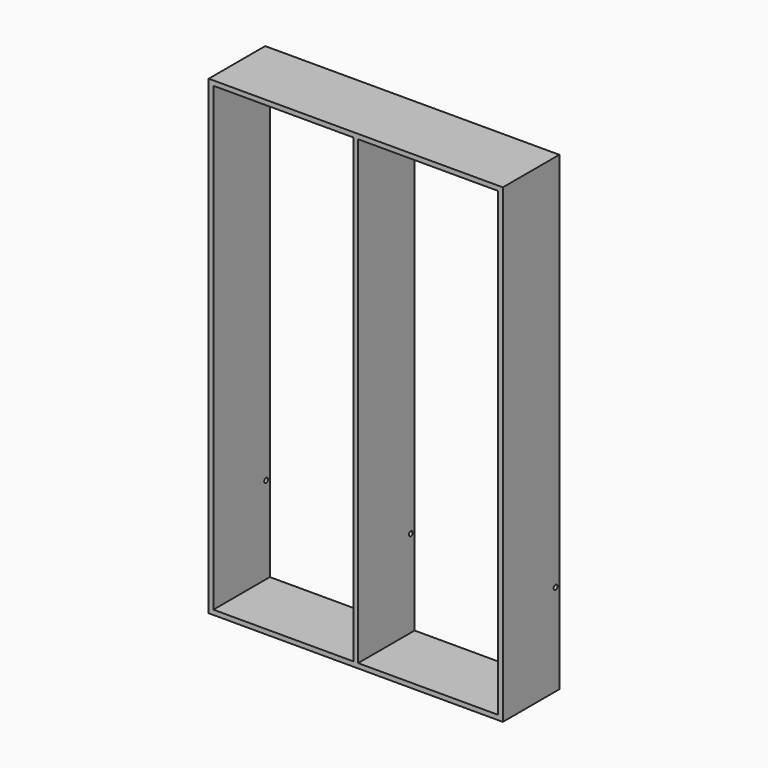
from build123d import *

# Parameters (mm, degrees)
F0_W     = 20
F0_H     = 20
F0_H_2   = 1960
F1_DEPTH = 300
F3_DEPTH = 1250.001


with BuildPart() as f1:
    # F0 (on Front) → F1 (new body)
    with BuildSketch(Plane.XZ):
        with Locations((-10, 10)):
            Rectangle(F0_W, F0_H)
        Polygon((-1230, 0), (-20, 0), (-20, 20), (-615, 20), (-635, 20), (-1230, 20), align=None)
        with Locations((-10, 1000)):
            Rectangle(F0_W, F0_H_2)
        with Locations((-1240, 10)):
            Rectangle(F0_W, F0_H)
        with Locations((-10, 1990)):
            Rectangle(F0_W, F0_H)
        with Locations((-1240, 1000)):
            Rectangle(F0_W, F0_H_2)
        Polygon((-615, 1980), (-20, 1980), (-20, 2000), (-1230, 2000), (-1230, 1980), (-635, 1980), align=None)
        with Locations((-1240, 1990)):
            Rectangle(F0_W, F0_H)
        with Locations((-625, 1000)):
            Rectangle(F0_W, F0_H_2)
    extrude(amount=F1_DEPTH)

    # F2 (on face) → F3 (cut, through all)
    with BuildSketch(Plane.YZ):
        with BuildLine():
            ThreePointArc((-20, 380), (-12.928932, 382.928932), (-10, 390))
            ThreePointArc((-10, 390), (-27.071068, 397.071068), (-20, 380))
        make_face()
    extrude(amount=-F3_DEPTH, mode=Mode.SUBTRACT)


solid = f1.part
